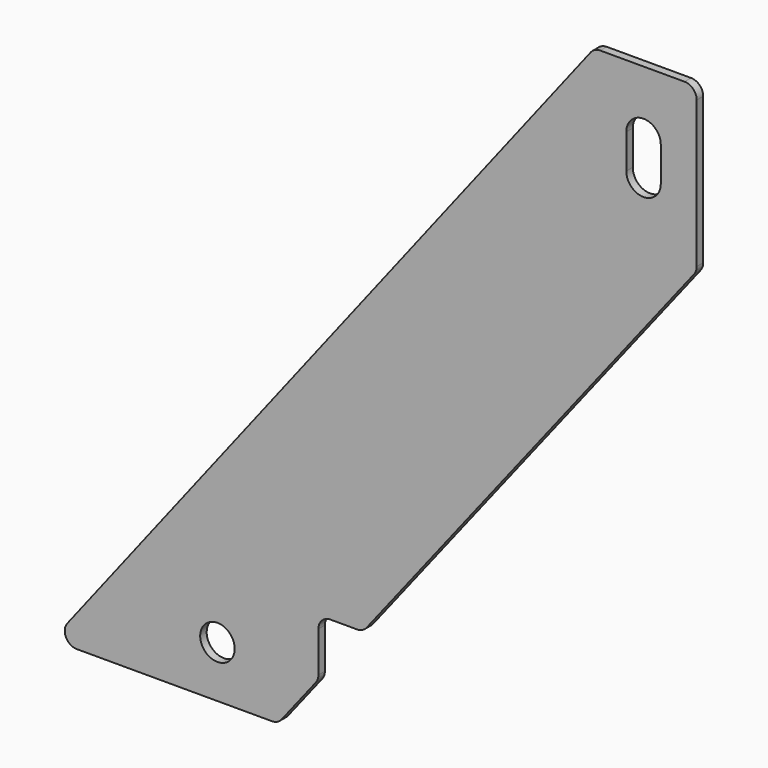
from build123d import *

# Parameters (mm, degrees)
F0_R     = 4.25
F1_DEPTH = 2


with BuildPart() as f1:
    # F0 (on Front) → F1 (new body)
    with BuildSketch(Plane.XZ):
        with BuildLine():
            ThreePointArc((-86.145654, -83.236903), (-86.472543, -86.396779), (-83.777597, -88.078725))
            Line((-83.777597, -88.078725), (-35.720674, -88.078725))
            ThreePointArc((-35.720674, -88.078725), (-34.40781, -87.776204), (-33.359727, -86.929652))
            Line((-33.359727, -86.929652), (-24.918762, -76.162791))
            ThreePointArc((-24.918762, -76.162791), (-24.443969, -75.290935), (-24.279709, -74.311864))
            Line((-24.279709, -74.311864), (-24.279709, -64.347647))
            ThreePointArc((-24.279709, -64.347647), (-23.401029, -62.226327), (-21.279709, -61.347647))
            Line((-21.279709, -61.347647), (-14.76414, -61.347647))
            ThreePointArc((-14.76414, -61.347647), (-13.451277, -61.045126), (-12.403193, -60.198574))
            Line((-12.403193, -60.198574), (68.308059, 42.752551))
            ThreePointArc((68.308059, 42.752551), (68.782852, 43.624407), (68.947112, 44.603478))
            Line((68.947112, 44.603478), (68.947112, 80.722355))
            ThreePointArc((68.947112, 80.722355), (68.068433, 82.843675), (65.947112, 83.722355))
            Line((65.947112, 83.722355), (45.178799, 83.722355))
            ThreePointArc((45.178799, 83.722355), (43.860744, 83.417301), (42.810742, 82.564177))
            Line((42.810742, 82.564177), (-86.145654, -83.236903))
        make_face()
        with Locations((-49.157487, -75.347647)):
            Circle(F0_R, mode=Mode.SUBTRACT)
        with BuildLine():
            ThreePointArc((60.092513, 59.652353), (55.842513, 55.402353), (51.592513, 59.652353))
            Line((51.592513, 59.652353), (51.592513, 68.152353))
            ThreePointArc((51.592513, 68.152353), (55.842513, 72.402353), (60.092513, 68.152353))
            Line((60.092513, 68.152353), (60.092513, 59.652353))
        make_face(mode=Mode.SUBTRACT)
    extrude(amount=-F1_DEPTH)


solid = f1.part
